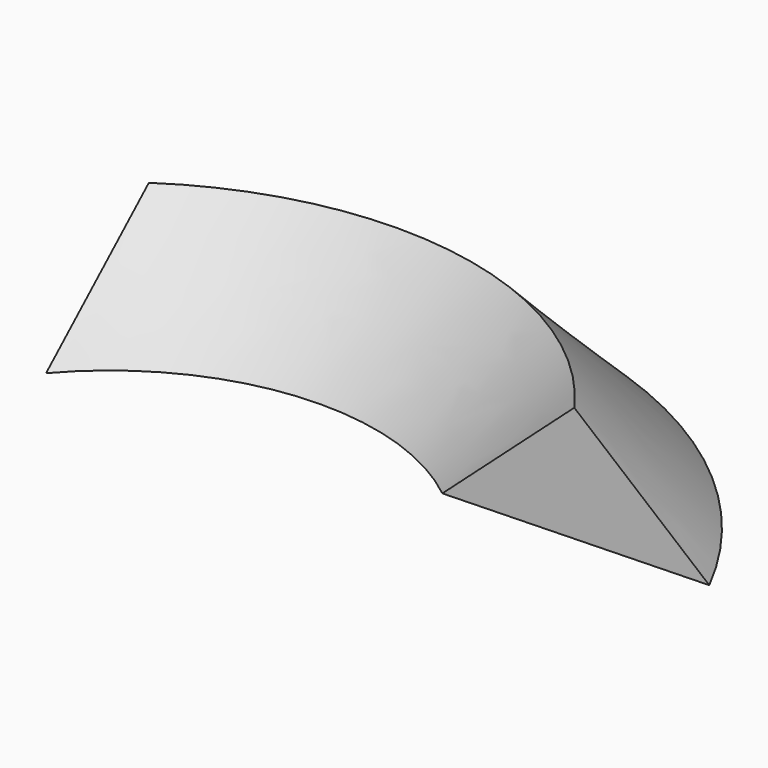
from build123d import *


with BuildPart() as f2:
    # F2: sweep along a path in F1
    with BuildLine(Plane.XY) as f2_path:
        ThreePointArc((112.879053, -20.321343), (60.545719, 12.648014), (0, 0))
    # F0 (on Right) → F2 (sweep)
    with BuildSketch(Plane.YZ):
        Polygon((-29.174915, 0), (29.859325, 0), (0, 26.206253), align=None)
    sweep(path=f2_path.line)


solid = f2.part
